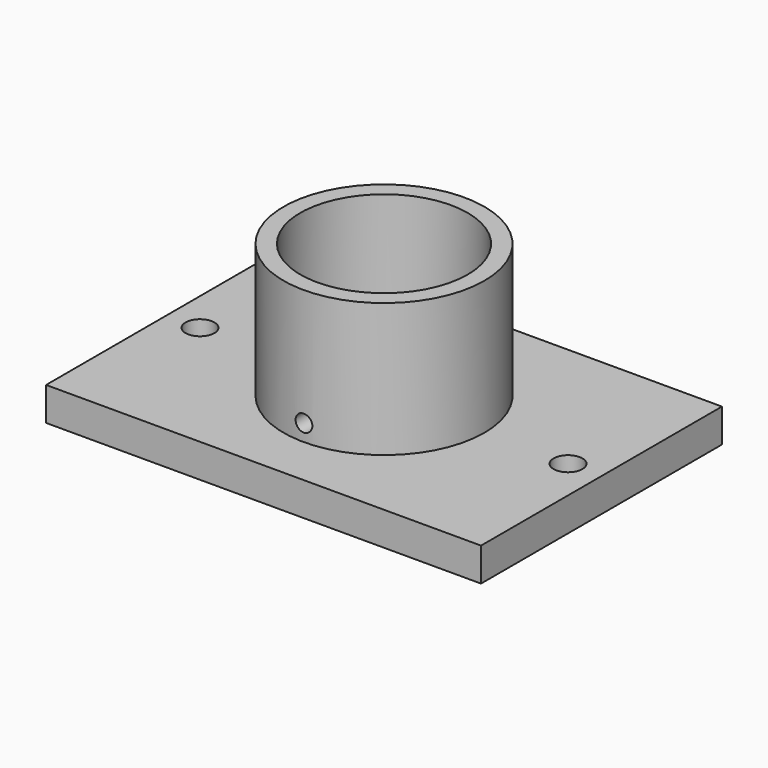
from build123d import *

# Parameters (mm, degrees)
F0_W     = 165.1
F0_H     = 114.3
F1_DEPTH = 12.7
F2_R     = 38.1
F2_R_2   = 31.75
F3_DEPTH = 50.8
F4_R     = 5.49275
F4_R_2   = 7.14375
F5_DEPTH = 25.4
F7_DEPTH = 76.2


with BuildPart() as f1:
    # F0 (on Top) → F1 (new body)
    with BuildSketch(Plane.XY):
        with Locations((82.55, 57.15)):
            Rectangle(F0_W, F0_H)
    extrude(amount=F1_DEPTH)

    # F2 (on face) → F3 (join)
    with BuildSketch(Plane.XY.offset(12.7)):
        with Locations((82.55, 57.15)):
            Circle(F2_R)
        with Locations((82.55, 57.15)):
            Circle(F2_R_2, mode=Mode.SUBTRACT)
    extrude(amount=F3_DEPTH)

    # F4 (on face) → F5 (cut)
    with BuildSketch(Plane.XY.offset(12.7)):
        with Locations((152.4, 57.15)):
            Circle(F4_R)
        with Locations((12.7, 57.15)):
            Circle(F4_R)
        with Locations((82.55, 57.15)):
            Circle(F4_R_2)
    extrude(amount=-F5_DEPTH, mode=Mode.SUBTRACT)

    # F6 (on Front) → F7 (cut)
    with BuildSketch(Plane.XZ):
        with BuildLine():
            ThreePointArc((79.375, 19.05), (82.55, 15.875), (85.725, 19.05))
            ThreePointArc((85.725, 19.05), (82.55, 22.225), (79.375, 19.05))
        make_face()
    extrude(amount=-F7_DEPTH, mode=Mode.SUBTRACT)


solid = f1.part
